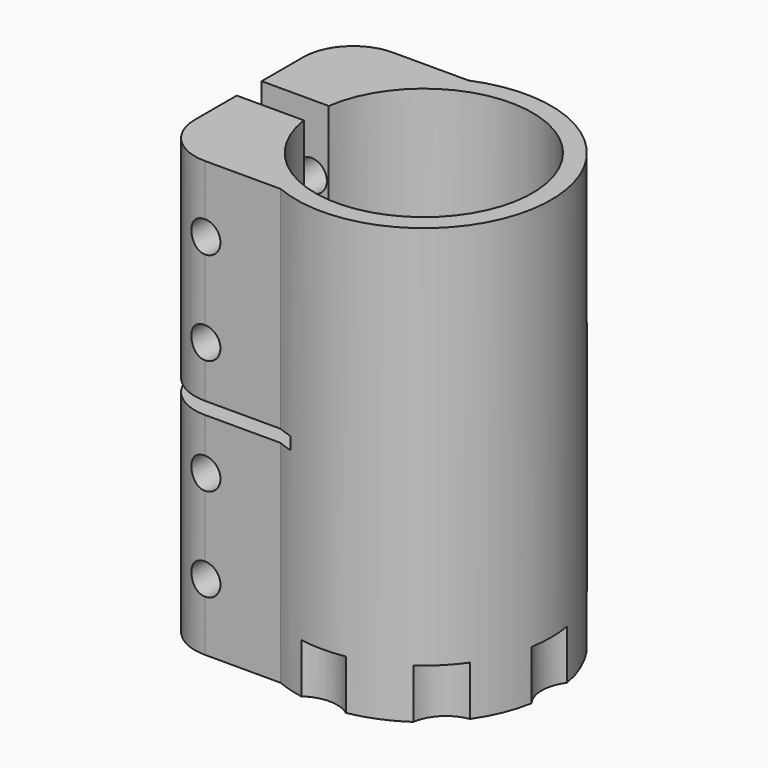
from build123d import *

# Parameters (mm, degrees)
F1_DEPTH       = 35
F3_D           = 5
F3_START       = 1.7550021
F3_CBORE_D     = 10
F3_CBORE_DEPTH = 8
F4_W           = 22.4
F4_H           = 2
F5_DEPTH       = 25
F7_DEPTH       = 8


with BuildPart() as f1:
    # F0 (on Top) → F1 (new body, symmetric)
    with BuildSketch(Plane.XY):
        with BuildLine():
            ThreePointArc((-17.3192642082, 2.5086026559), (17.5, 0), (-17.3192642082, -2.5086026559))
            Line((-17.3192642082, -2.5086026559), (-28.1192642082, -2.5086026559))
            Line((-28.1192642082, -2.5086026559), (-28.1192642082, -10.9086026559))
            ThreePointArc((-28.1192642082, -10.9086026559), (-25.7761184577, -16.5654569054), (-20.1192642082, -18.9086026559))
            Line((-20.1192642082, -18.9086026559), (-7.9192642082, -18.9086026559))
            ThreePointArc((-7.9192642082, -18.9086026559), (20.5, 0), (-7.9192642082, 18.9086026559))
            Line((-7.9192642082, 18.9086026559), (-20.1192642082, 18.9086026559))
            ThreePointArc((-20.1192642082, 18.9086026559), (-25.7761184577, 16.5654569054), (-28.1192642082, 10.9086026559))
            Line((-28.1192642082, 10.9086026559), (-28.1192642082, 2.5086026559))
            Line((-28.1192642082, 2.5086026559), (-17.3192642082, 2.5086026559))
        make_face()
    extrude(amount=F1_DEPTH, both=True)

    # F3 (through all)
    # its depths count from where the whole tool has entered the part; down to there all is cleared
    with Locations(Plane(origin=(0, 18.9086026559, 0), x_dir=(-1, 0, 0), z_dir=(0, 1, 0)).offset(-F3_START)):
        with Locations((20.1192642082, -24.25), (20.1192642082, -9.25), (20.1192642082, 9.25), (20.1192642082, 24.25)):
            CounterBoreHole(F3_D / 2, F3_CBORE_D / 2, F3_CBORE_DEPTH)

    # F4 (on Front) → F5 (cut, symmetric)
    with BuildSketch(Plane.XZ):
        with Locations((-16.9192642082, 0)):
            Rectangle(F4_W, F4_H)
    extrude(amount=F5_DEPTH, both=True, mode=Mode.SUBTRACT)

    # F6 (on face) → F7 (cut)
    with BuildSketch(Plane(origin=(0, 0, -35), x_dir=(1, 0, 0), z_dir=(0, 0, -1))):
        with BuildLine():
            ThreePointArc((-3.5799127084, 20.185), (0, 20.5), (3.5799127084, 20.185))
            ThreePointArc((3.5799127084, 20.185), (5.3609456372, 22.305512688), (6, 25))
            ThreePointArc((6, 25), (-2.694487312, 30.3609456372), (-3.5799127084, 20.185))
        make_face()
        with BuildLine():
            ThreePointArc((11.7415698261, 16.8043309304), (14.4956890143, 14.4956890143), (16.8043309304, 11.7415698261))
            ThreePointArc((16.8043309304, 11.7415698261), (21.5994018258, 13.1367427743), (23.6776695297, 17.6776695297))
            ThreePointArc((23.6776695297, 17.6776695297), (17.2398329286, 23.6616731318), (11.7415698261, 16.8043309304))
        make_face()
        with BuildLine():
            ThreePointArc((20.185, 3.5799127084), (19, 0), (20.185, -3.5799127084))
            ThreePointArc((20.185, -3.5799127084), (20.5, 0), (20.185, 3.5799127084))
        make_face()
        with BuildLine():
            ThreePointArc((16.8043309304, -11.7415698261), (13.4350288425, -13.4350288425), (11.7415698261, -16.8043309304))
            ThreePointArc((11.7415698261, -16.8043309304), (14.4956890143, -14.4956890143), (16.8043309304, -11.7415698261))
        make_face()
        with BuildLine():
            ThreePointArc((-3.5799127084, -20.185), (0, -20.5), (3.5799127084, -20.185))
            ThreePointArc((3.5799127084, -20.185), (0, -19), (-3.5799127084, -20.185))
        make_face()
        with BuildLine():
            ThreePointArc((-3.5799127084, 20.185), (0, 19), (3.5799127084, 20.185))
            ThreePointArc((3.5799127084, 20.185), (0, 20.5), (-3.5799127084, 20.185))
        make_face()
        with BuildLine():
            ThreePointArc((11.7415698261, 16.8043309304), (13.4350288425, 13.4350288425), (16.8043309304, 11.7415698261))
            ThreePointArc((16.8043309304, 11.7415698261), (14.4956890143, 14.4956890143), (11.7415698261, 16.8043309304))
        make_face()
        with BuildLine():
            ThreePointArc((20.185, 3.5799127084), (20.5, 0), (20.185, -3.5799127084))
            ThreePointArc((20.185, -3.5799127084), (26.8854707635, -5.6960512638), (31, 0))
            ThreePointArc((31, 0), (26.8854707635, 5.6960512638), (20.185, 3.5799127084))
        make_face()
        with BuildLine():
            ThreePointArc((16.8043309304, -11.7415698261), (14.4956890143, -14.4956890143), (11.7415698261, -16.8043309304))
            ThreePointArc((11.7415698261, -16.8043309304), (17.2398329286, -23.6616731318), (23.6776695297, -17.6776695297))
            ThreePointArc((23.6776695297, -17.6776695297), (21.5994018258, -13.1367427743), (16.8043309304, -11.7415698261))
        make_face()
        with BuildLine():
            ThreePointArc((-3.5799127084, -20.185), (-2.694487312, -30.3609456372), (6, -25))
            ThreePointArc((6, -25), (5.3609456372, -22.305512688), (3.5799127084, -20.185))
            ThreePointArc((3.5799127084, -20.185), (0, -20.5), (-3.5799127084, -20.185))
        make_face()
    extrude(amount=-F7_DEPTH, mode=Mode.SUBTRACT)


solid = f1.part
